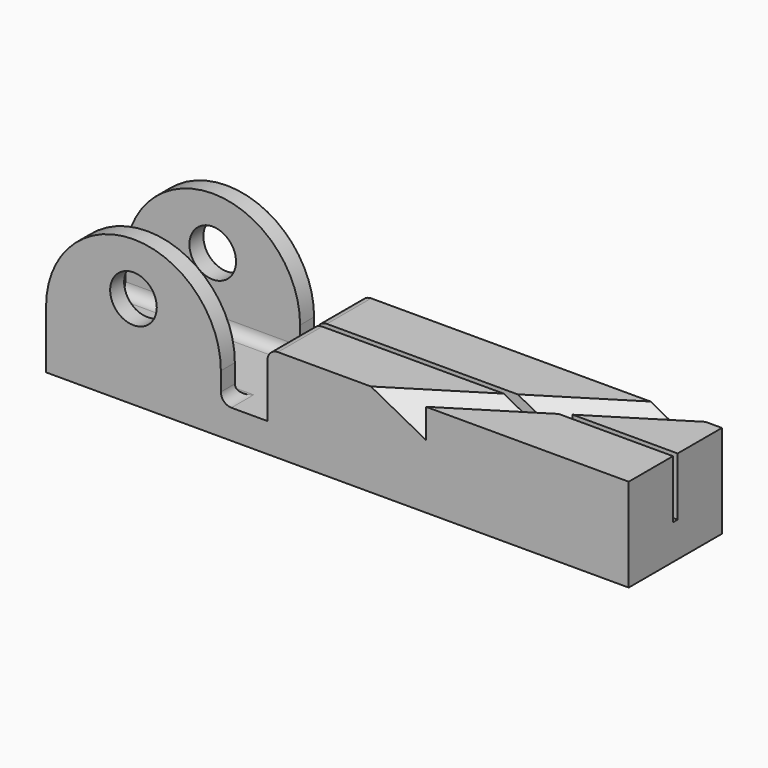
from build123d import *

# Parameters (mm, degrees)
F0_R      = 4
F1_DEPTH  = 10
F3_DEPTH  = 7
F4_R      = 1.8
F9_DEPTH  = 25
F11_DEPTH = 40


with BuildPart() as f1:
    # F0 (on Front) → F1 (new body, symmetric)
    with BuildSketch(Plane.XZ):
        Polygon((0, -20), (0, -25), (100, -25), (100, -9), (38, -9), (38, -20), (30, -20), align=None)
        with BuildLine():
            Line((0, -15), (0, -20))
            Line((0, -20), (30, -20))
            Line((30, -20), (30, -15))
            ThreePointArc((30, -15), (15, 0), (0, -15))
        make_face()
        with Locations((15, -9)):
            Circle(F0_R, mode=Mode.SUBTRACT)
    extrude(amount=F1_DEPTH, both=True)

    # F2 (on Front) → F3 (cut, symmetric)
    with BuildSketch(Plane.XZ):
        with BuildLine():
            Line((30, -20), (30, -15))
            ThreePointArc((30, -15), (15, 0), (0, -15))
            Line((0, -15), (0, -20))
            Line((0, -20), (30, -20))
        make_face()
    extrude(amount=F3_DEPTH, both=True, mode=Mode.SUBTRACT)

    # F4
    f4_edges = [f1.edges().sort_by_distance(p)[0] for p in [
        (15, 7, -20),
        (15, -7, -20),
        (30, -8.5, -20),
        (30, 8.5, -20),
        (38, 0, -9),
    ]]
    fillet(f4_edges, radius=F4_R)

    # F8 (on face) → F9 (cut, symmetric)
    with BuildSketch(Plane(origin=(53.9389180046, 33.7047767362, 0), x_dir=(-0.5299192642, 0.8480480962, 0), z_dir=(0.8480480962, 0.5299192642, 0))):
        Polygon((-38.0182327263, -9), (-43.0182327263, -9), (-43.0182327263, -14), align=None)
    extrude(amount=F9_DEPTH, both=True, mode=Mode.SUBTRACT)

    # F10 (on offset) → F11 (cut, symmetric)
    with BuildSketch(Plane.YZ.offset(75)):
        Polygon((0.5, -9), (0, -9), (-0.5, -9), (-0.5, -19), (0.5, -19), align=None)
    extrude(amount=F11_DEPTH, both=True, mode=Mode.SUBTRACT)


solid = f1.part
